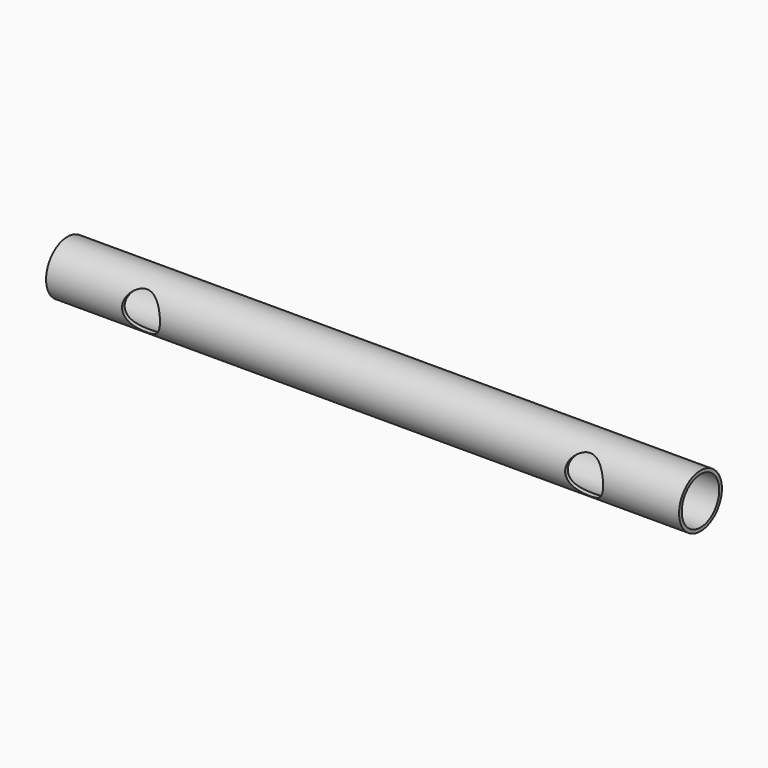
from build123d import *

# Parameters (mm, degrees)
F0_R     = 12.7
F0_R_2   = 11.1125
F1_DEPTH = 150
F2_R     = 9
F3_DEPTH = 15


with BuildPart() as f1:
    # F0 (on Right) → F1 (new body, symmetric)
    with BuildSketch(Plane.YZ):
        Circle(F0_R)
        Circle(F0_R_2, mode=Mode.SUBTRACT)
    extrude(amount=F1_DEPTH, both=True)

    # F2 (on Front) → F3 (cut, symmetric)
    with BuildSketch(Plane.XZ):
        with Locations((-105.0105, 0)):
            Circle(F2_R)
        with Locations((105.0105, 0)):
            Circle(F2_R)
    extrude(amount=F3_DEPTH, both=True, mode=Mode.SUBTRACT)


solid = f1.part
